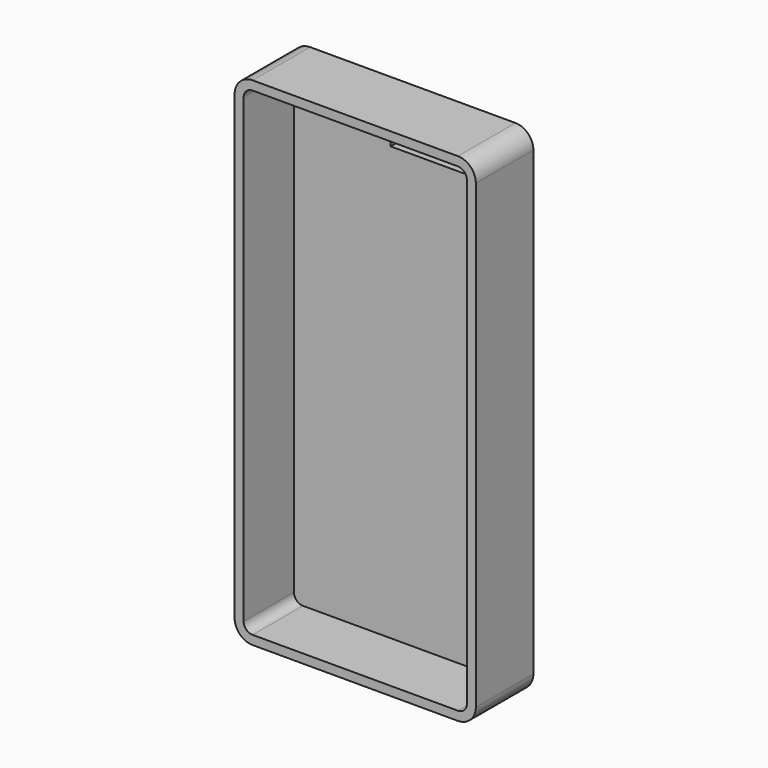
from build123d import *

# Parameters (mm, degrees)
F0_W     = 67.1
F0_H     = 138.3
F1_DEPTH = 10
F2_R     = 5
F3_T     = -2.5
F4_W     = 31.3336290419
F4_H     = 11.3688334823
F5_DEPTH = 25


with BuildPart() as f1:
    # F0 (on Front) → F1 (new body, symmetric)
    with BuildSketch(Plane.XZ):
        Rectangle(F0_W, F0_H)
    extrude(amount=F1_DEPTH, both=True)

    # F2
    f2_edges = [f1.edges().sort_by_distance(p)[0] for p in [
        (-33.55, 0, 69.15),
        (33.55, 0, 69.15),
        (33.55, 0, -69.15),
        (-33.55, 0, -69.15),
    ]]
    fillet(f2_edges, radius=F2_R)

    # F3
    f3_openings = [f1.faces().sort_by_distance(p)[0] for p in [
        (0, -10, 0),
    ]]
    offset(amount=F3_T, openings=f3_openings)

    # F4 (on Front) → F5 (cut)
    with BuildSketch(Plane.XZ):
        with Locations((11.5074831992, 59.4784356654)):
            Rectangle(F4_W, F4_H)
    extrude(amount=-F5_DEPTH, mode=Mode.SUBTRACT)


solid = f1.part
